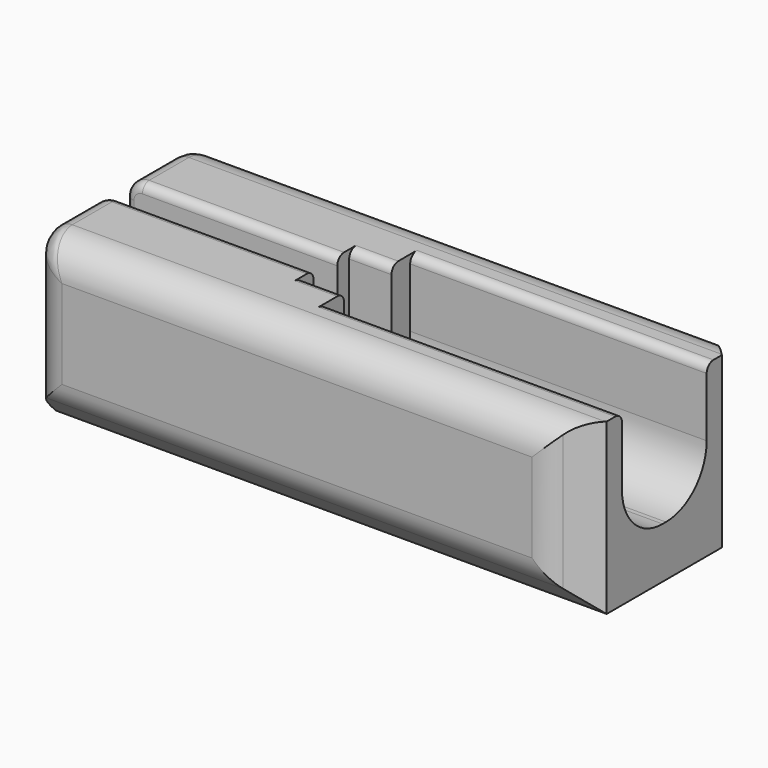
from build123d import *

# Parameters (mm, degrees)
SKETCH_W        = 65
SKETCH_H        = 25
PAD_DEPTH       = 20
SKETCH001_W     = 65
SKETCH001_H     = 3.5
POCKET_DEPTH    = 7.5
SKETCH002_W     = 40
SKETCH002_H     = 7
POCKET001_DEPTH = 10
SKETCH003_W     = 35
SKETCH003_H     = 12.5
POCKET002_DEPTH = 14
CHAMFER_SIZE    = 4
CHAMFER001_SIZE = 4
FILLET_R        = 3.9
FILLET001_R     = 2
FILLET002_R     = 1.5
FILLET003_R     = 3
FILLET004_R     = 6
FILLET005_R     = 1


with BuildPart() as part:
    # Sketch → Pad (new body)
    with BuildSketch(Plane.XY):
        with Locations((32.5, 12.5)):
            Rectangle(SKETCH_W, SKETCH_H)
    extrude(amount=PAD_DEPTH)

    # Sketch001 → Pocket (cut)
    with BuildSketch(Plane.XY.offset(20)):
        with Locations((32.5, 12.5)):
            Rectangle(SKETCH001_W, SKETCH001_H)
    extrude(amount=-POCKET_DEPTH, mode=Mode.SUBTRACT)

    # Sketch002 → Pocket001 (cut)
    with BuildSketch(Plane.XY.offset(20)):
        with Locations((45, 12.5)):
            Rectangle(SKETCH002_W, SKETCH002_H)
    extrude(amount=-POCKET001_DEPTH, mode=Mode.SUBTRACT)

    # Sketch003 → Pocket002 (cut)
    with BuildSketch(Plane.XY.offset(20)):
        with Locations((47.5, 12.5)):
            Rectangle(SKETCH003_W, SKETCH003_H)
    extrude(amount=-POCKET002_DEPTH, mode=Mode.SUBTRACT)

    # Chamfer
    chamfer_edges = [part.edges().sort_by_distance(p)[0] for p in [
        (65, 25, 10),
        (65, 0, 10),
    ]]
    chamfer(chamfer_edges, length=CHAMFER_SIZE)

    # Chamfer001
    chamfer001_edges = [part.edges().sort_by_distance(p)[0] for p in [
        (30.5, 0, 0),
        (30.5, 25, 0),
    ]]
    chamfer(chamfer001_edges, length=CHAMFER001_SIZE)

    # Fillet
    fillet_edges = [part.edges().sort_by_distance(p)[0] for p in [
        (61, 0, 12),
        (30.5, 0, 4),
        (30.5, 0, 20),
        (0, 0, 12),
        (61, 25, 12),
        (30.5, 25, 4),
        (30.5, 25, 20),
        (0, 25, 12),
    ]]
    fillet(fillet_edges, radius=FILLET_R)

    # Fillet001
    fillet001_edges = [part.edges().sort_by_distance(p)[0] for p in [
        (0, 7.325, 20),
        (0, 17.675, 20),
    ]]
    fillet(fillet001_edges, radius=FILLET001_R)

    # Fillet002
    fillet002_edges = [part.edges().sort_by_distance(p)[0] for p in [
        (12.5, 14.25, 12.5),
        (12.5, 10.75, 12.5),
    ]]
    fillet(fillet002_edges, radius=FILLET002_R)

    # Fillet003
    fillet003_edges = [part.edges().sort_by_distance(p)[0] for p in [
        (27.5, 9, 10),
        (27.5, 16, 10),
    ]]
    fillet(fillet003_edges, radius=FILLET003_R)

    # Fillet004
    fillet004_edges = [part.edges().sort_by_distance(p)[0] for p in [
        (47.5, 18.75, 6),
        (47.5, 6.25, 6),
    ]]
    fillet(fillet004_edges, radius=FILLET004_R)

    # Fillet005
    fillet005_edges = [part.edges().sort_by_distance(p)[0] for p in [
        (13.5, 14.25, 20),
        (13.5, 10.75, 20),
        (27.5, 16, 20),
        (27.5, 9, 20),
        (47.5, 18.75, 20),
        (47.5, 6.25, 20),
    ]]
    fillet(fillet005_edges, radius=FILLET005_R)


solid = part.part
